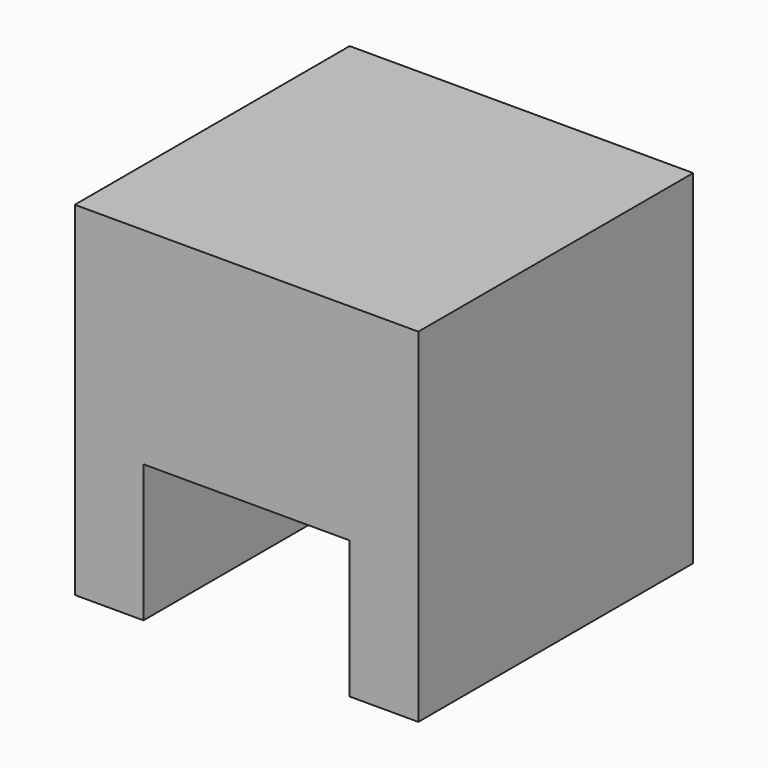
from build123d import *

# Parameters (mm, degrees)
F0_W     = 100
F0_H     = 100
F1_DEPTH = 100
F2_W     = 60
F2_H     = 40
F3_DEPTH = 100.001


with BuildPart() as f1:
    # F0 (on Top) → F1 (new body)
    with BuildSketch(Plane.XY):
        Rectangle(F0_W, F0_H)
    extrude(amount=F1_DEPTH)

    # F2 (on face) → F3 (cut, through all)
    with BuildSketch(Plane.XZ.offset(50)):
        with Locations((0, 20)):
            Rectangle(F2_W, F2_H)
    extrude(amount=-F3_DEPTH, mode=Mode.SUBTRACT)


solid = f1.part
